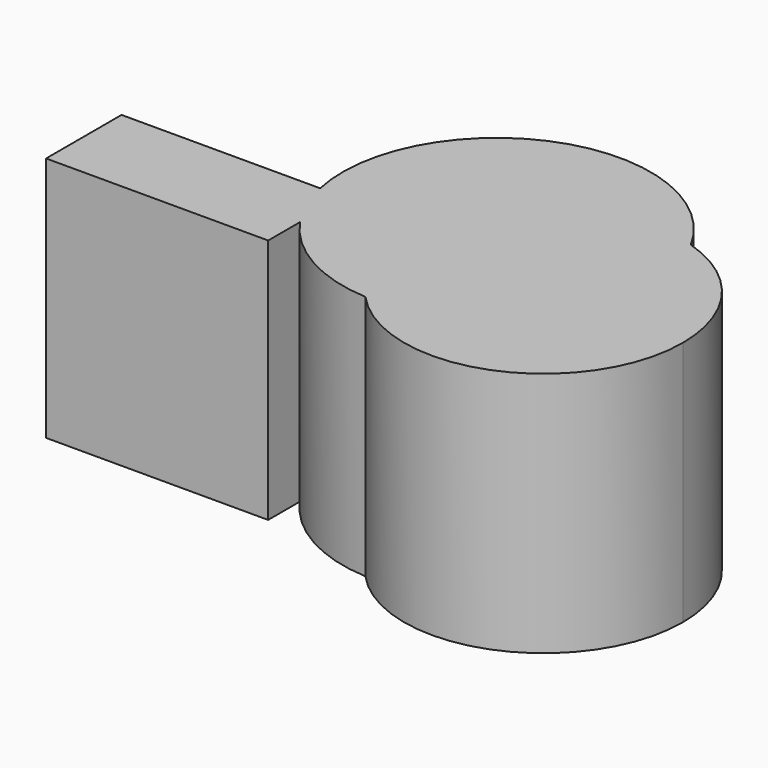
from build123d import *

# Parameters (mm, degrees)
F1_DEPTH = 73


with BuildPart() as f1:
    # F0 (on Top) → F1 (new body)
    with BuildSketch(Plane.XY):
        with BuildLine():
            Line((-72.7140201691, 8.0667017028), (-131.6497474909, 8.0667017028))
            Line((-131.6497474909, 8.0667017028), (-131.6497474909, -19.9154652655))
            Line((-131.6497474909, -19.9154652655), (-65.753698349, -19.9154652655))
            Line((-65.753698349, -19.9154652655), (-65.753698349, -8.1091851911))
            ThreePointArc((-65.753698349, -8.1091851911), (-70.0204713157, -0.3597130192), (-72.7140201691, 8.0667017028))
        make_face()
        with BuildLine():
            ThreePointArc((12.0841842232, 39.5514563587), (-43.95195039, 60.5378347362), (-72.7140201691, 8.0667017028))
            Line((-72.7140201691, 8.0667017028), (-65.753698349, 8.0667017028))
            Line((-65.753698349, 8.0667017028), (-65.753698349, -8.1091851911))
            ThreePointArc((-65.753698349, -8.1091851911), (-50.4399597526, -22.1300637719), (-30.5028123826, -27.9271130837))
            ThreePointArc((-30.5028123826, -27.9271130837), (-34.9735728703, 22.0724808102), (12.0841842232, 39.5514563587))
        make_face()
        with BuildLine():
            Line((-65.753698349, 8.0667017028), (-72.7140201691, 8.0667017028))
            ThreePointArc((-72.7140201691, 8.0667017028), (-70.0204713157, -0.3597130192), (-65.753698349, -8.1091851911))
            Line((-65.753698349, -8.1091851911), (-65.753698349, 8.0667017028))
        make_face()
        with BuildLine():
            ThreePointArc((41.3563200543, 0), (33.2423118838, 24.6027215782), (12.0841842232, 39.5514563587))
            ThreePointArc((12.0841842232, 39.5514563587), (16.234552473, 28.9747517123), (17.6471201799, 17.7010260522))
            ThreePointArc((17.6471201799, 17.7010260522), (3.3833749523, -15.4665148831), (-30.5028123826, -27.9271130837))
            ThreePointArc((-30.5028123826, -27.9271130837), (14.9810069252, -38.5475633464), (41.3563200543, 0))
        make_face()
        with BuildLine():
            ThreePointArc((17.6471201799, 17.7010260522), (16.234552473, 28.9747517123), (12.0841842232, 39.5514563587))
            ThreePointArc((12.0841842232, 39.5514563587), (-34.9735728703, 22.0724808102), (-30.5028123826, -27.9271130837))
            ThreePointArc((-30.5028123826, -27.9271130837), (3.3833749523, -15.4665148831), (17.6471201799, 17.7010260522))
        make_face()
    extrude(amount=F1_DEPTH)


solid = f1.part
